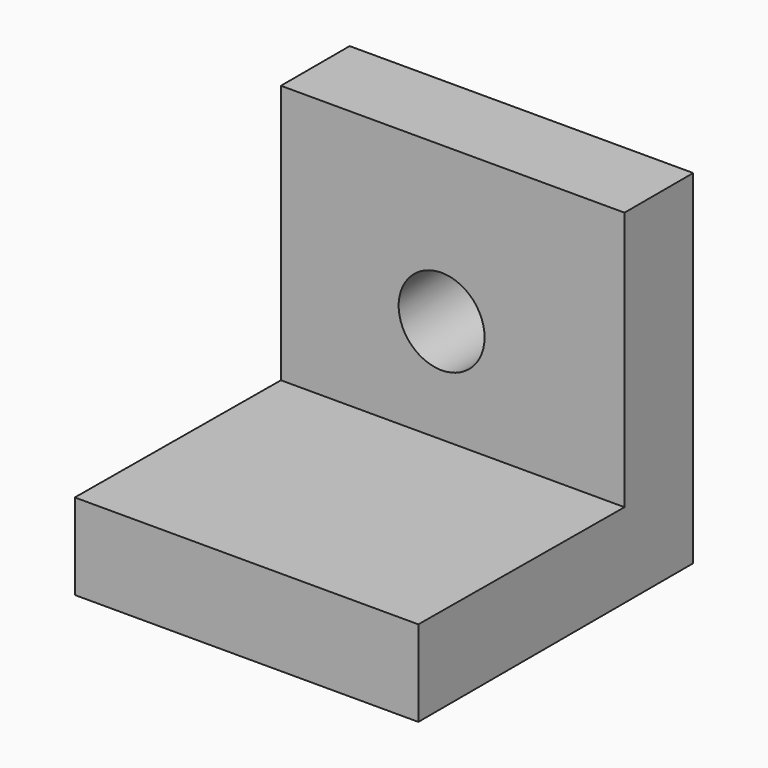
from build123d import *

# Parameters (mm, degrees)
F1_DEPTH = 50.8
F2_R     = 6.35
F3_DEPTH = 25.4


with BuildPart() as f1:
    # F0 (on Right) → F1 (new body)
    with BuildSketch(Plane.YZ):
        Polygon((42.91913, -27.839016), (42.91913, 22.960984), (30.21913, 22.960984), (30.21913, -15.374913), (-7.88087, -15.139016), (-7.88087, -27.839016), align=None)
    extrude(amount=F1_DEPTH)

    # F2 (on face) → F3 (cut)
    with BuildSketch(Plane.XZ.offset(-30.21913)):
        with Locations((23.75817, 0)):
            Circle(F2_R)
    extrude(amount=-F3_DEPTH, mode=Mode.SUBTRACT)


solid = f1.part
